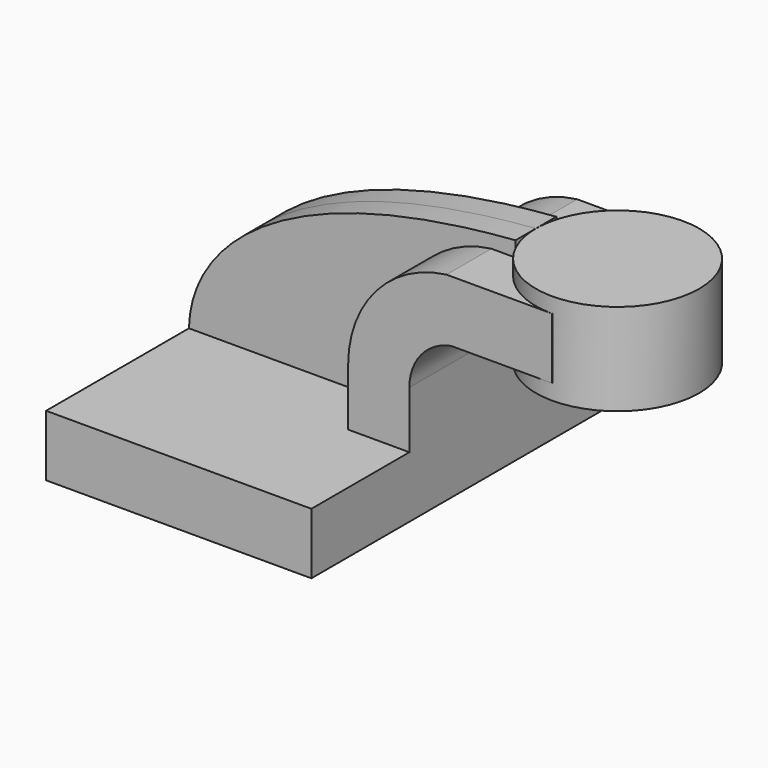
from build123d import *

# Parameters (mm, degrees)
F1_DEPTH = 63.5
F0_W     = 25.4
F0_H     = 19.05
F2_DEPTH = 25.4
F3_DEPTH = 7.9375


with BuildPart() as f1:
    # F0 (on Front) → F1 (new body, symmetric)
    with BuildSketch(Plane.XZ):
        Polygon((-41.275, -9.525), (41.275, -9.525), (41.275, 9.525), (22.225, 9.525), (-41.275, 9.525), align=None)
    extrude(amount=F1_DEPTH, both=True)

    # F0 (on Front) → F2 (join, symmetric)
    with BuildSketch(Plane.XZ):
        with BuildLine():
            Line((22.225, 9.525), (41.275, 9.525))
            Line((41.275, 9.525), (41.275, 27.268456991))
            ThreePointArc((41.275, 27.268456991), (44.9403856979, 37.4144386387), (54.2439377757, 42.8752))
            Line((54.2439377757, 42.8752), (60.325, 42.8752))
            Line((60.325, 42.8752), (60.325, 61.9252))
            Line((60.325, 61.9252), (52.8296077714, 61.9252))
            ThreePointArc((52.8296077714, 61.9252), (30.9713319324, 50.3862631847), (22.225, 27.268456991))
            Line((22.225, 27.268456991), (22.225, 9.525))
        make_face()
        with Locations((73.025, 52.4002)):
            Rectangle(F0_W, F0_H)
    extrude(amount=F2_DEPTH, both=True)

    # F0 (on Front) → F3 (join, symmetric)
    with BuildSketch(Plane.XZ):
        with BuildLine():
            add(Edge.make_bspline(
                [(-41.275, 9.525), (-40.8368930221, 32.5554832816), (-15.4209258035, 60.8283095062), (60.325, 66.675)],
                knots=[0, 0, 0, 0, 116.5705044169, 116.5705044169, 116.5705044169, 116.5705044169], degree=3))
            Line((-41.275, 9.525), (22.225, 9.525))
            Line((22.225, 9.525), (22.225, 27.268456991))
            ThreePointArc((22.225, 27.268456991), (30.9713319324, 50.3862631847), (52.8296077714, 61.9252))
            Line((52.8296077714, 61.9252), (60.325, 61.9252))
            Line((60.325, 61.9252), (60.325, 66.675))
        make_face()
    extrude(amount=F3_DEPTH, both=True)


with BuildPart() as f4:
    # F0 (on Front) → F4 (revolve)
    with BuildSketch(Plane.XZ):
        Polygon((111.125, 66.675), (85.725, 66.675), (85.725, 61.9252), (85.725, 42.8752), (85.725, 38.1), (111.125, 38.1), align=None)
    revolve(axis=Axis((85.725, 0, 52.3875), (0, 0, 1)))


solid = Compound([f1.part, f4.part])
